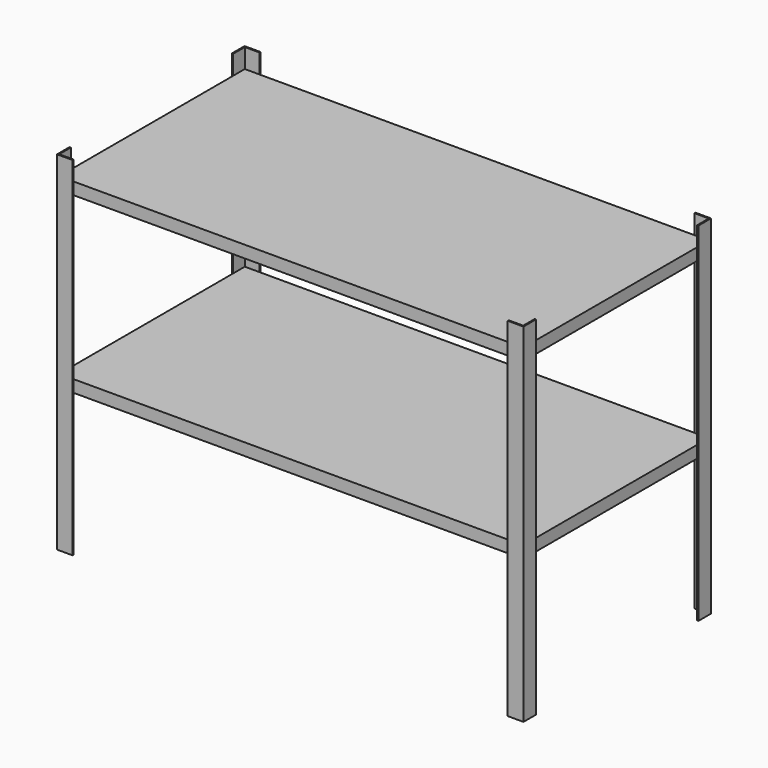
from build123d import *

# Parameters (mm, degrees)
F1_DEPTH  = 914.4
F10_W     = 1214.12
F10_H     = 604.52
F11_DEPTH = 12.7
F12_W     = 1214.12
F12_H     = 604.52
F13_DEPTH = 12.7


with BuildPart() as f1:
    # F0 (on Top) → F1 (new body)
    with BuildSketch(Plane.XY):
        Polygon((0, 38.1), (-3.175, 38.1), (-3.175, -3.175), (38.1, -3.175), (38.1, 0), (0, 0), align=None)
    extrude(amount=F1_DEPTH)


with BuildPart() as f4_1:
    # F4: instance of F1
    add(f1.part.mirror(Plane.YZ.offset(609.6)))


with BuildPart() as f5_1:
    # F5: instance of F4_1
    add(f4_1.part.mirror(Plane.XZ.offset(-304.8)))


with BuildPart() as f5_2:
    # F5: instance of F1
    add(f1.part.mirror(Plane.XZ.offset(-304.8)))


with BuildPart() as f1_1:
    add(f1.part)

    add(f4_1.part)  # F9 merges F4_1

    add(f5_1.part)  # F9 merges F5_1

    add(f5_2.part)  # F9 merges F5_2
    # F9: sweep along a path in F7
    with BuildLine(Plane.XY.offset(889)) as f9_path:
        Line((1219.2, 0), (0, 0))
        Line((0, 0), (0, 609.6))
        Line((0, 609.6), (1219.2, 609.6))
        Line((1219.2, 609.6), (1219.2, 0))
    # F8 (on face) → F9 (sweep)
    with BuildSketch(Plane.YZ.offset(38.1)):
        Polygon((2.54, 863.6), (0, 863.6), (0, 831.85), (2.54, 831.85), (2.54, 844.55), (7.62, 850.9), (2.54, 850.9), align=None)
        Polygon((2.54, 406.4), (0, 406.4), (0, 374.65), (2.54, 374.65), (2.54, 387.35), (7.62, 393.7), (2.54, 393.7), align=None)
    sweep(path=f9_path.line, transition=Transition.RIGHT)

    # F10 (on face) → F11 (join)
    with BuildSketch(Plane.XY.offset(850.9)):
        with Locations((609.6, 304.8)):
            Rectangle(F10_W, F10_H)
    extrude(amount=F11_DEPTH)

    # F12 (on face) → F13 (join)
    with BuildSketch(Plane.XY.offset(393.7)):
        with Locations((609.6, 304.8)):
            Rectangle(F12_W, F12_H)
    extrude(amount=F13_DEPTH)


solid = f1_1.part
